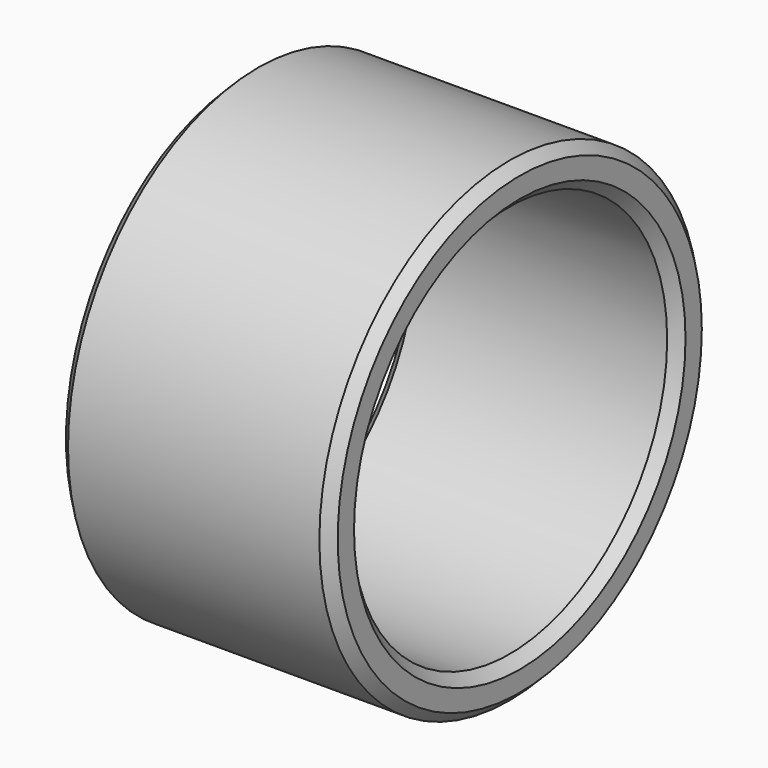
from build123d import *

# Parameters (mm, degrees)
F0_R     = 17.5
F0_R_2   = 14.5
F1_DEPTH = 10
F2_SIZE  = 0.75


with BuildPart() as f1:
    # F0 (on Right) → F1 (new body, symmetric)
    with BuildSketch(Plane.YZ):
        Circle(F0_R)
        Circle(F0_R_2, mode=Mode.SUBTRACT)
    extrude(amount=F1_DEPTH, both=True)

    # F2
    f2_edges = [f1.edges().sort_by_distance(p)[0] for p in [
        (-10, -17.5, 0),
        (10, -17.5, 0),
        (10, -14.5, 0),
        (-10, -14.5, 0),
    ]]
    chamfer(f2_edges, length=F2_SIZE)


solid = f1.part
